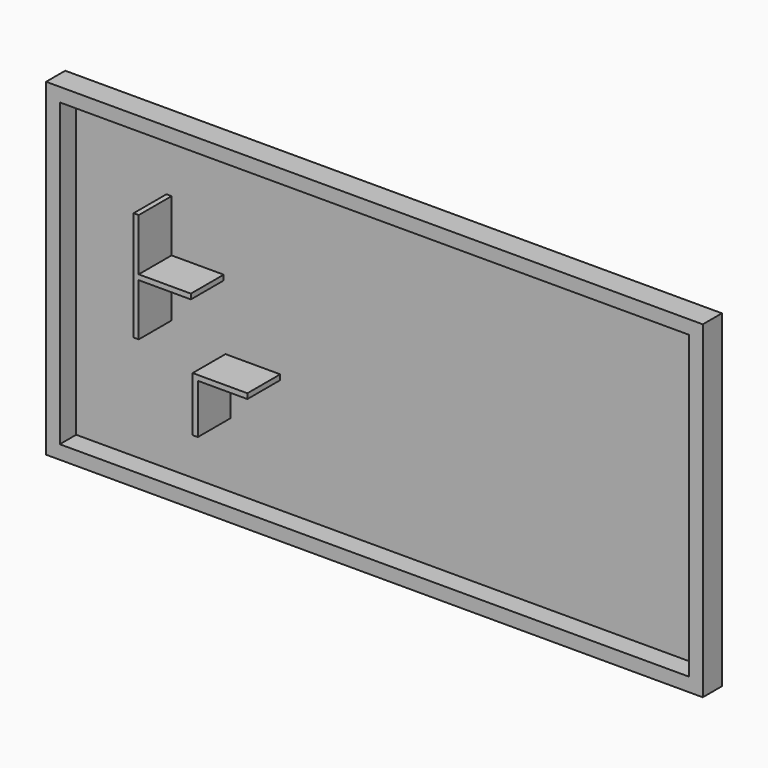
from build123d import *

# Parameters (mm, degrees)
F0_W     = 2438.4
F0_H     = 1219.2
F0_W_2   = 2336.8
F0_H_2   = 1117.6
F1_DEPTH = 12.7
F2_DEPTH = 88.9
F4_DEPTH = 152.4
F6_DEPTH = 152.4


with BuildPart() as f1:
    # F0 (on Front) → F1 (new body)
    with BuildSketch(Plane.XZ):
        Rectangle(F0_W, F0_H)
        Rectangle(F0_W_2, F0_H_2, mode=Mode.SUBTRACT)
        Rectangle(F0_W_2, F0_H_2)
    extrude(amount=F1_DEPTH)

    # F0 (on Front) → F2 (join)
    with BuildSketch(Plane.XZ):
        Rectangle(F0_W, F0_H)
        Rectangle(F0_W_2, F0_H_2, mode=Mode.SUBTRACT)
    extrude(amount=F2_DEPTH)


with BuildPart() as f4:
    # F3 (on face) → F4 (new body)
    with BuildSketch(Plane.XZ.offset(12.7)):
        Polygon((-814.2674711327, 336.3761521408), (-833.3174711327, 336.3761521408), (-833.3174711327, 142.7011521408), (-833.3174711327, 123.6511521408), (-833.3174711327, -70.0238478592), (-814.2674711327, -70.0238478592), (-814.2674711327, 123.6511521408), (-620.5924711327, 123.6511521408), (-620.5924711327, 142.7011521408), (-814.2674711327, 142.7011521408), align=None)
    extrude(amount=F4_DEPTH)


with BuildPart() as f6:
    # F5 (on face) → F6 (new body)
    with BuildSketch(Plane.XZ.offset(12.7)):
        Polygon((-594.9254888773, -318.0188434053), (-594.9254888773, -133.8688434053), (-410.7754888773, -133.8688434053), (-410.7754888773, -114.8188434053), (-594.9254888773, -114.8188434053), (-613.9754888773, -114.8188434053), (-613.9754888773, -133.8688434053), (-613.9754888773, -318.0188434053), align=None)
    extrude(amount=F6_DEPTH)


solid = Compound([f1.part, f4.part, f6.part])
